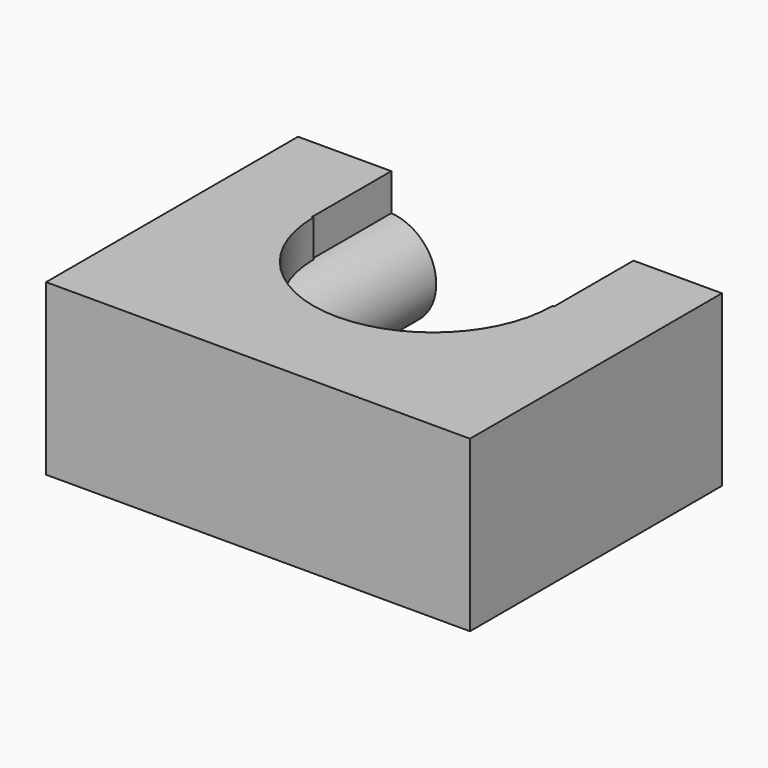
from build123d import *

# Parameters (mm, degrees)
F0_W     = 35
F0_H     = 26
F1_DEPTH = 14
F3_DEPTH = 32.63313
F4_R     = 3.95
F5_DEPTH = 25


with BuildPart() as f1:
    # F0 (on Top) → F1 (new body)
    with BuildSketch(Plane.XY):
        with Locations((-3.3376533666, -6.9431716278)):
            Rectangle(F0_W, F0_H)
    extrude(amount=F1_DEPTH)

    # F2 (on face) → F3 (cut)
    with BuildSketch(Plane(origin=(0, 0, 0), x_dir=(1, 0, 0), z_dir=(0, 0, -1))):
        with BuildLine():
            Line((-13.1376533666, 2.1359970383), (-13.1376533666, -6.0568283722))
            Line((-13.1376533666, -6.0568283722), (-8.6545346445, -6.0568283722))
            ThreePointArc((-8.6545346445, -6.0568283722), (-11.8568708771, -2.5044354035), (-13.0148172936, 2.1359970383))
            Line((-13.0148172936, 2.1359970383), (-13.1376533666, 2.1359970383))
        make_face()
        with BuildLine():
            ThreePointArc((-13.0148172936, 2.1359970383), (-11.8568708771, -2.5044354035), (-8.6545346445, -6.0568283722))
            Line((-8.6545346445, -6.0568283722), (2.3792279113, -6.0568283722))
            ThreePointArc((2.3792279113, -6.0568283722), (5.5815641438, -2.5044354035), (6.7395105604, 2.1359970383))
            Line((6.7395105604, 2.1359970383), (-13.0148172936, 2.1359970383))
        make_face()
        with BuildLine():
            ThreePointArc((6.7395105604, 2.1359970383), (5.5815641438, -2.5044354035), (2.3792279113, -6.0568283722))
            Line((2.3792279113, -6.0568283722), (6.8623466334, -6.0568283722))
            Line((6.8623466334, -6.0568283722), (6.8623466334, 2.1359970383))
            Line((6.8623466334, 2.1359970383), (6.7395105604, 2.1359970383))
        make_face()
        with BuildLine():
            ThreePointArc((-13.0148172936, 2.1359970383), (-11.8568708771, -2.5044354035), (-8.6545346445, -6.0568283722))
            Line((-8.6545346445, -6.0568283722), (2.3792279113, -6.0568283722))
            ThreePointArc((2.3792279113, -6.0568283722), (5.5815641438, -2.5044354035), (6.7395105604, 2.1359970383))
            Line((6.7395105604, 2.1359970383), (-13.0148172936, 2.1359970383))
        make_face()
        with BuildLine():
            ThreePointArc((6.7395105604, 2.1359970383), (-3.1376533666, 12.0131609653), (-13.0148172936, 2.1359970383))
            Line((-13.0148172936, 2.1359970383), (6.7395105604, 2.1359970383))
        make_face()
    extrude(amount=-F3_DEPTH, mode=Mode.SUBTRACT)

    # F4 (on face) → F5 (join)
    with BuildSketch(Plane(origin=(0, 6.0568283722, 0), x_dir=(-1, 0, 0), z_dir=(0, 1, 0))):
        with Locations((13.3731277149, 7)):
            Circle(F4_R)
        with BuildLine():
            ThreePointArc((-6.8623466334, 3.05), (-4.0692748477, 4.2069282143), (-2.9123466334, 7))
            ThreePointArc((-2.9123466334, 7), (-4.0692748477, 9.7930717857), (-6.8623466334, 10.95))
            Line((-6.8623466334, 10.95), (-6.8623466334, 3.05))
        make_face()
    extrude(amount=-F5_DEPTH)


solid = f1.part
